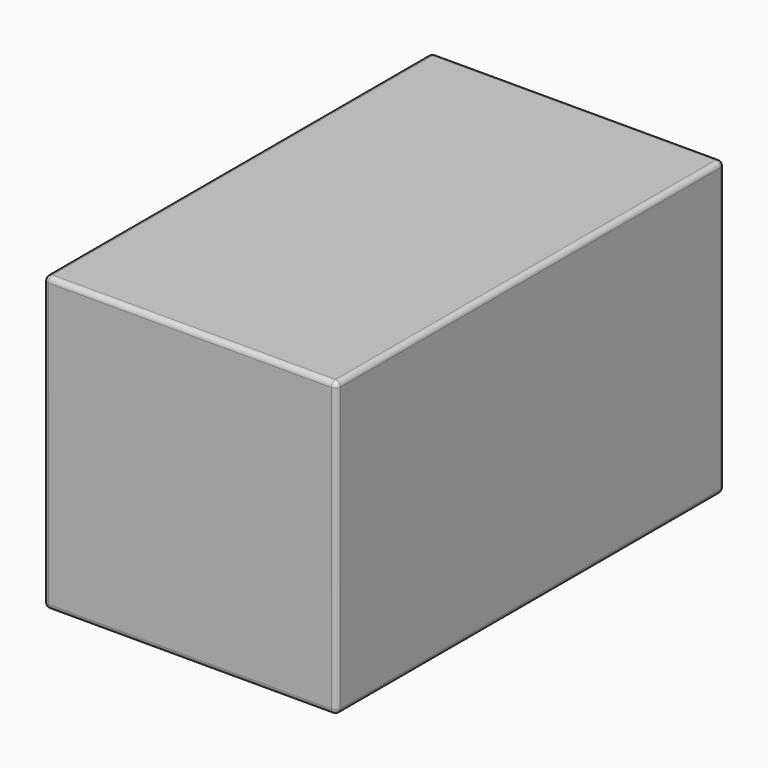
from build123d import *

# Parameters (mm, degrees)
F0_W     = 92.075
F0_H     = 92.075
F0_R     = 38.1
F1_DEPTH = 152.4
F2_DEPTH = 19.05
F3_R     = 1.5875


with BuildPart() as f1:
    # F0 (on Front) → F1 (new body)
    with BuildSketch(Plane.XZ):
        Rectangle(F0_W, F0_H)
        Circle(F0_R, mode=Mode.SUBTRACT)
    extrude(amount=-F1_DEPTH)

    # F0 (on Front) → F2 (join)
    with BuildSketch(Plane.XZ):
        Rectangle(F0_W, F0_H)
        Circle(F0_R, mode=Mode.SUBTRACT)
        Circle(F0_R)
    extrude(amount=-F2_DEPTH)

    # F3
    f3_edges = [f1.edges().sort_by_distance(p)[0] for p in [
        (-46.0375, 76.2, 46.0375),
        (-46.0375, 76.2, -46.0375),
        (46.0375, 76.2, 46.0375),
        (46.0375, 0, 0),
        (46.0375, 76.2, -46.0375),
        (46.0375, 152.4, 0),
        (0, 0, 46.0375),
        (-46.0375, 0, 0),
        (0, 0, -46.0375),
        (0, 152.4, -46.0375),
        (-46.0375, 152.4, 0),
        (0, 152.4, 46.0375),
        (-38.1, 152.4, 0),
    ]]
    fillet(f3_edges, radius=F3_R)


solid = f1.part
